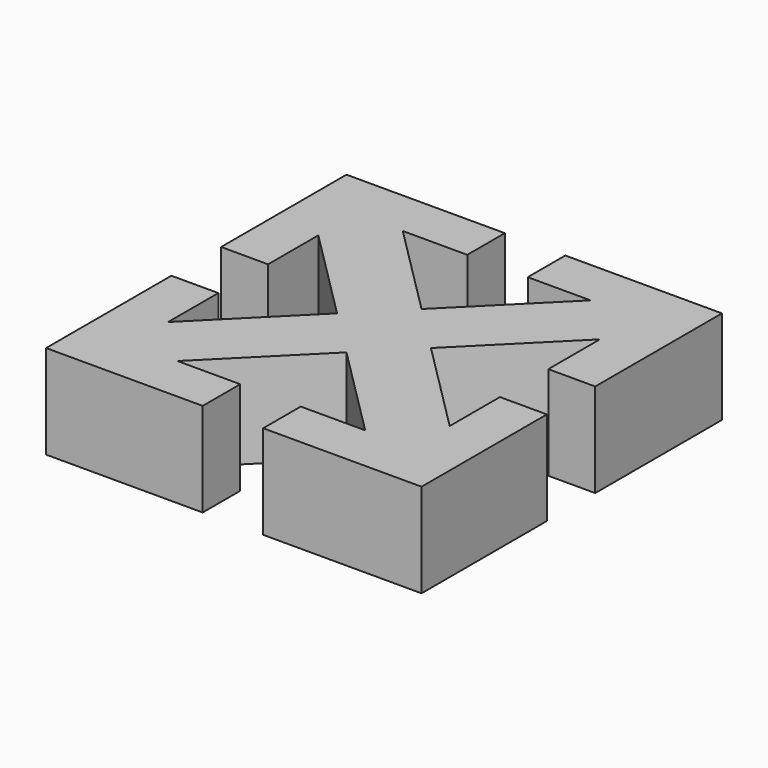
from build123d import *

# Parameters (mm, degrees)
F0_W     = 3.175
F0_H     = 3.175
F1_DEPTH = 6.35
F2_W     = 3.175
F2_H     = 4.0921564981
F2_H_2   = 0.1173117965
F2_H_3   = 3.9748447016
F2_W_2   = 4.0921564981
F2_H_4   = 3.175
F3_DEPTH = 25.4


with BuildPart() as f1:
    # F0 (on Top) → F1 (new body)
    with BuildSketch(Plane.XY):
        with Locations((-11.1125, 11.1125)):
            Rectangle(F0_W, F0_H)
        with Locations((11.1125, 11.1125)):
            Rectangle(F0_W, F0_H)
        with Locations((11.1125, -11.1125)):
            Rectangle(F0_W, F0_H)
        with Locations((-11.1125, -11.1125)):
            Rectangle(F0_W, F0_H)
        Polygon((6.35, 9.525), (9.525, 12.7), (-9.525, 12.7), (-6.35, 9.525), align=None)
        Polygon((-9.525, -12.7), (9.525, -12.7), (6.35, -9.525), (-6.35, -9.525), align=None)
        Polygon((12.7, -9.525), (12.7, 9.525), (9.525, 6.35), (9.525, -6.35), align=None)
        Polygon((-9.525, 6.35), (-12.7, 9.525), (-12.7, -9.525), (-9.525, -6.35), align=None)
        Polygon((9.525, 9.525), (9.525, 12.7), (6.35, 9.525), align=None)
        Polygon((-6.35, 9.525), (-9.525, 12.7), (-9.525, 9.525), align=None)
        Polygon((9.525, -12.7), (9.525, -9.525), (6.35, -9.525), align=None)
        Polygon((-9.525, -9.525), (-9.525, -12.7), (-6.35, -9.525), align=None)
        Polygon((9.525, 6.35), (12.7, 9.525), (9.525, 9.525), align=None)
        Polygon((9.525, -9.525), (12.7, -9.525), (9.525, -6.35), align=None)
        Polygon((-9.525, 6.35), (-9.525, 9.525), (-12.7, 9.525), align=None)
        Polygon((-9.525, -6.35), (-12.7, -9.525), (-9.525, -9.525), align=None)
        Polygon((9.525, 6.35), (9.525, 9.525), (6.35, 9.525), (0, 3.175), (3.175, 0), align=None)
        Polygon((-6.35, 9.525), (-9.525, 9.525), (-9.525, 6.35), (-3.175, 0), (0, 3.175), align=None)
        Polygon((6.35, -9.525), (9.525, -9.525), (9.525, -6.35), (3.175, 0), (0, -3.175), align=None)
        Polygon((3.175, 0), (0, 3.175), (-3.175, 0), (0, -3.175), align=None)
        Polygon((0, -3.175), (-3.175, 0), (-9.525, -6.35), (-9.525, -9.525), (-6.35, -9.525), align=None)
    extrude(amount=F1_DEPTH)

    # F2 (on face) → F3 (cut)
    with BuildSketch(Plane(origin=(0, 0, 0), x_dir=(1, 0, 0), z_dir=(0, 0, -1))):
        with Locations((11.1125, 0.0586558983)):
            Rectangle(F2_W, F2_H)
        with Locations((-11.1125, 2.0460782491)):
            Rectangle(F2_W, F2_H_2)
        with Locations((-11.1125, 0)):
            Rectangle(F2_W, F2_H_3)
        with Locations((-11.1125, -2.0460782491)):
            Rectangle(F2_W, F2_H_2)
        with Locations((-0.0586558983, 11.1125)):
            Rectangle(F2_W_2, F2_H_4)
        with Locations((0.0586558983, -11.1125)):
            Rectangle(F2_W_2, F2_H_4)
    extrude(amount=-F3_DEPTH, mode=Mode.SUBTRACT)


solid = f1.part
